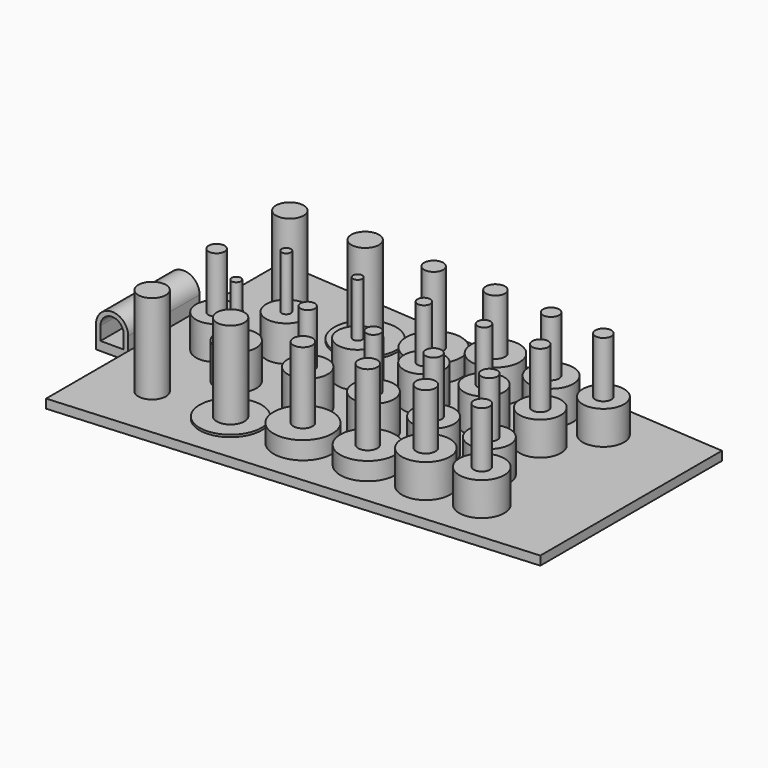
from build123d import *

# Parameters (mm, degrees)
F0_R     = 9.8806
F0_R_2   = 8.8265
F0_R_3   = 8.3566
F0_R_4   = 5.715
F0_R_5   = 7.8232
F0_R_6   = 6.8453
F0_R_7   = 6.4135
F0_R_8   = 5.8801
F0_R_9   = 6.3373
F1_DEPTH = 2.54
F2_DEPTH = 3.175
F3_DEPTH = 7.62
F4_DEPTH = 12.065
F5_DEPTH = 12.7
F6_R     = 3.937
F6_R_2   = 2.7305
F6_R_3   = 2.286
F6_R_4   = 1.8415
F6_R_5   = 1.3335
F6_R_6   = 2.032
F7_DEPTH = 25.4
F9_DEPTH = 25.4


with BuildPart() as f1:
    # F0 (on Top) → F1 (new body)
    with BuildSketch(Plane.XY):
        Polygon((-61.88075, 12.7), (-71.05015, 12.7), (-71.05015, -12.7), (-61.88075, -12.7), (-61.88075, -41.906793621), (71.05015, -32.2915386482), (71.05015, 32.2915386482), (-61.88075, 41.906793621), align=None)
        with Locations((-45.65015, -24.4856)):
            Circle(F0_R, mode=Mode.SUBTRACT)
        with Locations((-23.76805, -23.9338478505)):
            Circle(F0_R_2, mode=Mode.SUBTRACT)
        with Locations((-3.94335, -22.9710008273)):
            Circle(F0_R_3, mode=Mode.SUBTRACT)
        with Locations((-34.18205, -8.89)):
            Circle(F0_R_4, mode=Mode.SUBTRACT)
        with Locations((-13.84935, -8.89)):
            Circle(F0_R_4, mode=Mode.SUBTRACT)
        with Locations((13.90015, -22.2151253099)):
            Circle(F0_R_5, mode=Mode.SUBTRACT)
        with Locations((30.25775, -22.0123902971)):
            Circle(F0_R_6, mode=Mode.SUBTRACT)
        with Locations((45.65015, -21.3487)):
            Circle(F0_R_7, mode=Mode.SUBTRACT)
        with Locations((4.98475, -9.0551)):
            Circle(F0_R_8, mode=Mode.SUBTRACT)
        with Locations((22.07895, -9.0551)):
            Circle(F0_R_8, mode=Mode.SUBTRACT)
        with Locations((37.95395, -9.0551)):
            Circle(F0_R_8, mode=Mode.SUBTRACT)
        with Locations((-46.88205, 0)):
            Circle(F0_R_8, mode=Mode.SUBTRACT)
        with Locations((-34.18205, 8.89)):
            Circle(F0_R_4, mode=Mode.SUBTRACT)
        with Locations((-13.84935, 8.89)):
            Circle(F0_R_4, mode=Mode.SUBTRACT)
        with Locations((-45.65015, 24.4856)):
            Circle(F0_R, mode=Mode.SUBTRACT)
        with Locations((-23.76805, 23.9338478505)):
            Circle(F0_R_2, mode=Mode.SUBTRACT)
        with Locations((-3.94335, 23.5057943876)):
            Circle(F0_R_5, mode=Mode.SUBTRACT)
        with Locations((4.98475, 8.89)):
            Circle(F0_R_4, mode=Mode.SUBTRACT)
        with Locations((22.07895, 8.89)):
            Circle(F0_R_4, mode=Mode.SUBTRACT)
        with Locations((37.95395, 9.0551)):
            Circle(F0_R_8, mode=Mode.SUBTRACT)
        with Locations((13.90015, 23.1955801706)):
            Circle(F0_R_6, mode=Mode.SUBTRACT)
        with Locations((30.25775, 22.5217174975)):
            Circle(F0_R_9, mode=Mode.SUBTRACT)
        with Locations((45.65015, 21.8821)):
            Circle(F0_R_8, mode=Mode.SUBTRACT)
        with Locations((-45.65015, 24.4856)):
            Circle(F0_R)
        with Locations((-45.65015, -24.4856)):
            Circle(F0_R)
        with Locations((-23.76805, 23.9338478505)):
            Circle(F0_R_2)
        with Locations((-23.76805, -23.9338478505)):
            Circle(F0_R_2)
        with Locations((-3.94335, -22.9710008273)):
            Circle(F0_R_3)
        with Locations((-3.94335, 23.5057943876)):
            Circle(F0_R_5)
        with Locations((13.90015, -22.2151253099)):
            Circle(F0_R_5)
        with Locations((13.90015, 23.1955801706)):
            Circle(F0_R_6)
        with Locations((30.25775, -22.0123902971)):
            Circle(F0_R_6)
        with Locations((45.65015, -21.3487)):
            Circle(F0_R_7)
        with Locations((30.25775, 22.5217174975)):
            Circle(F0_R_9)
        with Locations((45.65015, 21.8821)):
            Circle(F0_R_8)
        with Locations((37.95395, 9.0551)):
            Circle(F0_R_8)
        with Locations((-46.88205, 0)):
            Circle(F0_R_8)
        with Locations((4.98475, -9.0551)):
            Circle(F0_R_8)
        with Locations((22.07895, -9.0551)):
            Circle(F0_R_8)
        with Locations((37.95395, -9.0551)):
            Circle(F0_R_8)
        with Locations((22.07895, 8.89)):
            Circle(F0_R_4)
        with Locations((4.98475, 8.89)):
            Circle(F0_R_4)
        with Locations((-13.84935, 8.89)):
            Circle(F0_R_4)
        with Locations((-34.18205, 8.89)):
            Circle(F0_R_4)
        with Locations((-34.18205, -8.89)):
            Circle(F0_R_4)
        with Locations((-13.84935, -8.89)):
            Circle(F0_R_4)
    extrude(amount=F1_DEPTH)

    # F0 (on Top) → F2 (join)
    with BuildSketch(Plane.XY):
        with Locations((-23.76805, 23.9338478505)):
            Circle(F0_R_2)
        with Locations((-23.76805, -23.9338478505)):
            Circle(F0_R_2)
    extrude(amount=F2_DEPTH)

    # F0 (on Top) → F3 (join)
    with BuildSketch(Plane.XY):
        with Locations((-3.94335, 23.5057943876)):
            Circle(F0_R_5)
        with Locations((-3.94335, -22.9710008273)):
            Circle(F0_R_3)
        with Locations((13.90015, -22.2151253099)):
            Circle(F0_R_5)
    extrude(amount=F3_DEPTH)

    # F0 (on Top) → F4 (join)
    with BuildSketch(Plane.XY):
        with Locations((13.90015, 23.1955801706)):
            Circle(F0_R_6)
        with Locations((30.25775, 22.5217174975)):
            Circle(F0_R_9)
        with Locations((45.65015, 21.8821)):
            Circle(F0_R_8)
        with Locations((30.25775, -22.0123902971)):
            Circle(F0_R_6)
        with Locations((45.65015, -21.3487)):
            Circle(F0_R_7)
        with Locations((37.95395, -9.0551)):
            Circle(F0_R_8)
        with Locations((22.07895, -9.0551)):
            Circle(F0_R_8)
        with Locations((37.95395, 9.0551)):
            Circle(F0_R_8)
        with Locations((-46.88205, 0)):
            Circle(F0_R_8)
    extrude(amount=F4_DEPTH)

    # F0 (on Top) → F5 (join)
    with BuildSketch(Plane.XY):
        with Locations((-13.84935, 8.89)):
            Circle(F0_R_4)
        with Locations((4.98475, 8.89)):
            Circle(F0_R_4)
        with Locations((22.07895, 8.89)):
            Circle(F0_R_4)
        with Locations((4.98475, -9.0551)):
            Circle(F0_R_8)
        with Locations((-13.84935, -8.89)):
            Circle(F0_R_4)
        with Locations((-34.18205, -8.89)):
            Circle(F0_R_4)
        with Locations((-34.18205, 8.89)):
            Circle(F0_R_4)
    extrude(amount=F5_DEPTH)

    # F6 (on face) → F7 (join)
    with BuildSketch(Plane.XY.offset(2.54)):
        with Locations((-45.65015, 24.4856)):
            Circle(F6_R)
        with Locations((-23.76805, 23.9338478505)):
            Circle(F6_R)
        with Locations((-3.94335, 23.5057943876)):
            Circle(F6_R_2)
        with Locations((13.90015, 23.1955801706)):
            Circle(F6_R_2)
        with Locations((30.25775, 22.5217174975)):
            Circle(F6_R_3)
        with Locations((45.65015, 21.8821)):
            Circle(F6_R_3)
        with Locations((37.95395, 9.0551)):
            Circle(F6_R_3)
        with Locations((22.07895, 8.89)):
            Circle(F6_R_4)
        with Locations((4.98475, 8.89)):
            Circle(F6_R_4)
        with Locations((-13.84935, 8.89)):
            Circle(F6_R_5)
        with Locations((-34.18205, 8.89)):
            Circle(F6_R_5)
        with Locations((-45.65015, -24.4856)):
            Circle(F6_R)
        with Locations((-23.76805, -23.9338478505)):
            Circle(F6_R)
        with Locations((-3.94335, -22.9710008273)):
            Circle(F6_R_2)
        with Locations((13.90015, -22.2151253099)):
            Circle(F6_R_2)
        with Locations((30.25775, -22.0123902971)):
            Circle(F6_R_2)
        with Locations((45.65015, -21.3487)):
            Circle(F6_R_3)
        with Locations((37.95395, -9.0551)):
            Circle(F6_R_3)
        with Locations((22.07895, -9.0551)):
            Circle(F6_R_3)
        with Locations((4.98475, -9.0551)):
            Circle(F6_R_6)
        with Locations((-13.84935, -8.89)):
            Circle(F6_R_6)
        with Locations((-34.18205, -8.89)):
            Circle(F6_R_5)
        with Locations((-46.88205, 0)):
            Circle(F6_R_3)
    extrude(amount=F7_DEPTH)

    # F8 (on face) → F9 (join, through all)
    with BuildSketch(Plane.XZ.offset(12.7)):
        with BuildLine():
            Line((-71.05015, 6.35), (-71.05015, 2.54))
            Line((-71.05015, 2.54), (-69.76745, 2.54))
            Line((-69.76745, 2.54), (-69.76745, 6.35))
            ThreePointArc((-69.76745, 6.35), (-66.46545, 9.652), (-63.16345, 6.35))
            Line((-63.16345, 6.35), (-63.16345, 2.54))
            Line((-63.16345, 2.54), (-61.88075, 2.54))
            Line((-61.88075, 2.54), (-61.88075, 6.35))
            ThreePointArc((-61.88075, 6.35), (-66.46545, 10.9347), (-71.05015, 6.35))
        make_face()
    extrude(amount=-F9_DEPTH)


solid = f1.part
